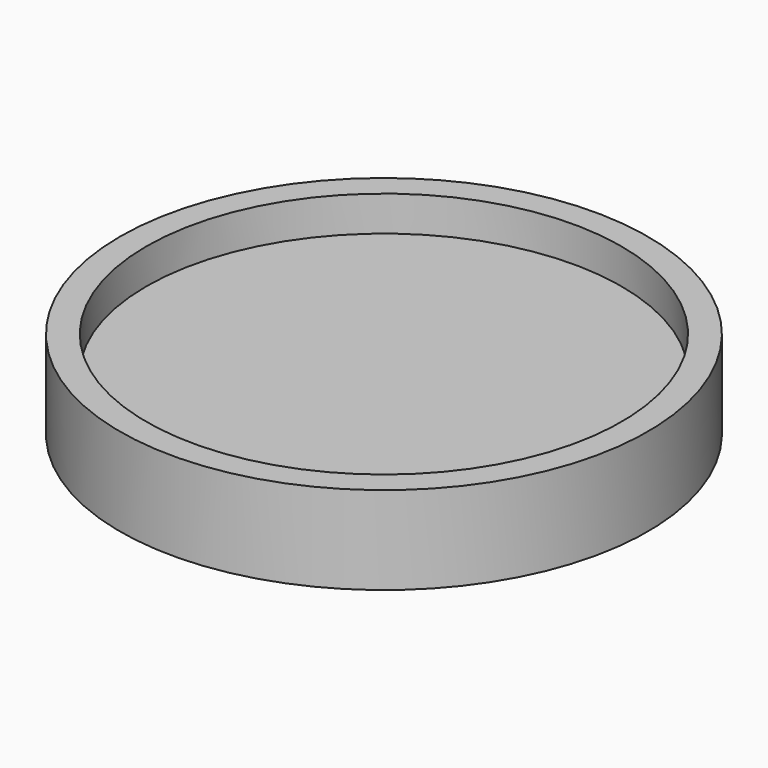
from build123d import *


with BuildPart() as part:
    # Sketch → Revolution (revolve)
    with BuildSketch(Plane.XZ):
        Polygon((0, 6), (-27, 6), (-27, 10), (-30, 10), (-30, 0), (0, 0), align=None)
    revolve(axis=Axis((0, 0, 0), (0, 0, 1)))


solid = part.part
